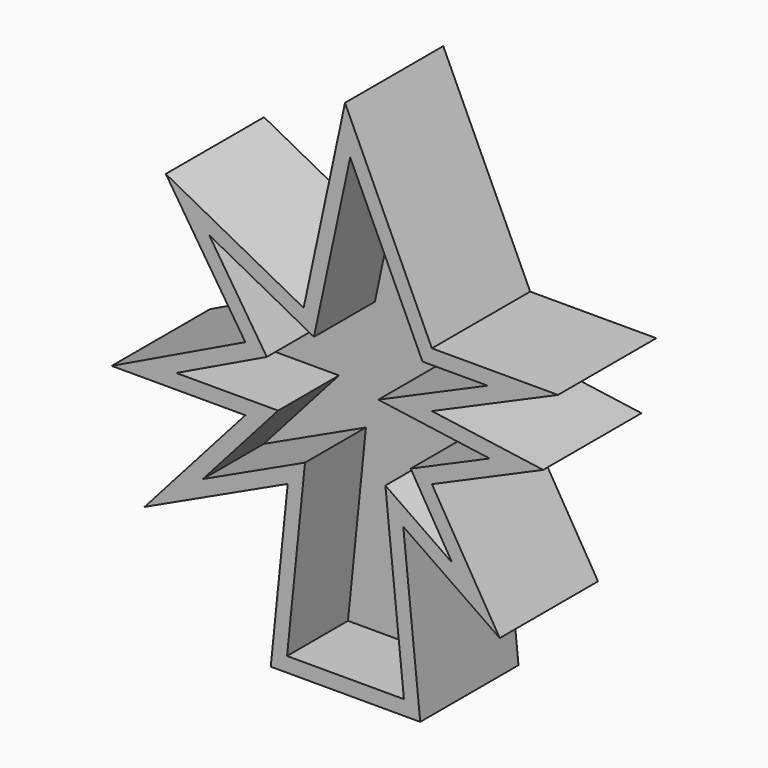
from build123d import *

# Parameters (mm, degrees)
F1_DEPTH = 25.4
F3_DEPTH = 15.748


with BuildPart() as f1:
    # F0 (on Front) → F1 (new body)
    with BuildSketch(Plane.XZ):
        Polygon((17.969195, 11.426263), (0, 50.276853), (-8.558371, 10.156651), (-37.059065, 25.283942), (-20.616358, 0), (-48.240107, -13.30161), (-20.616358, -13.30161), (-41.443788, -36.759872), (-11.846913, -22.947997), (-15.354693, -57.368066), (15.557597, -57.368066), (12.049817, -22.947997), (32.000303, -36.759872), (17.969195, -13.30161), (40.988985, -3.21675), (17.969195, 0), (44.050884, 11.426263), align=None)
    extrude(amount=F1_DEPTH)

    # F2 (on face) → F3 (cut)
    with BuildSketch(Plane.XZ.offset(25.4)):
        Polygon((22.154092, -26.236101), (13.577885, -11.897755), (29.903993, -4.745365), (6.884202, -1.528615), (29.49773, 8.378263), (16.020724, 8.378263), (1.072902, 40.696445), (-6.420008, 5.570945), (-28.079732, 17.06726), (-16.172185, -1.242969), (-34.884783, -10.25361), (-13.834205, -10.25361), (-29.385248, -27.768995), (-8.270242, -17.915325), (-11.980281, -54.320066), (12.183186, -54.320066), (8.346981, -16.677332), align=None)
    extrude(amount=-F3_DEPTH, mode=Mode.SUBTRACT)


solid = f1.part
